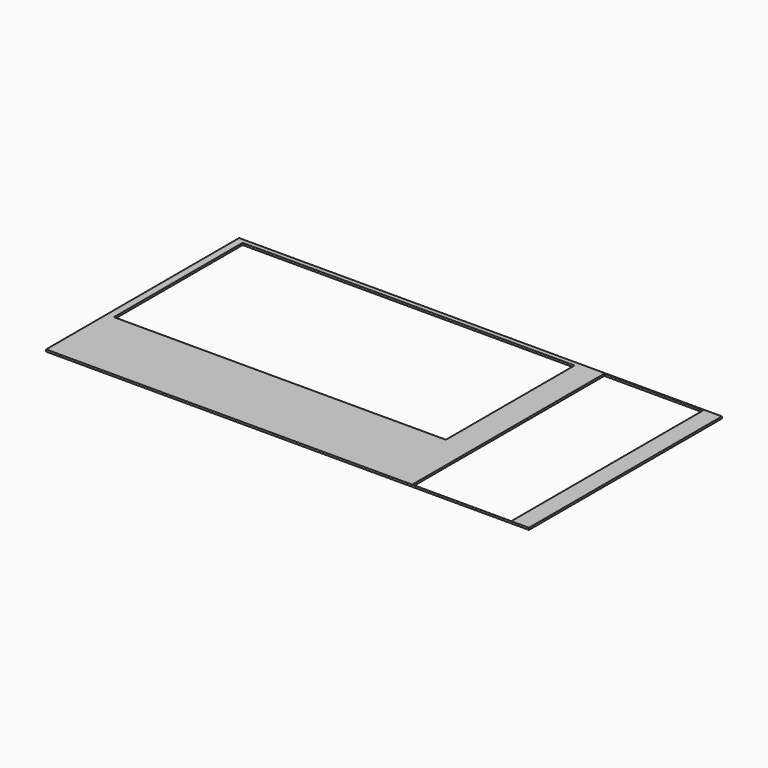
from build123d import *

# Parameters (mm, degrees)
F0_W     = 1219
F0_H     = 609
F0_W_2   = 250
F0_H_2   = 606
F0_W_3   = 838
F0_H_3   = 406
F1_DEPTH = 5


with BuildPart() as f1:
    # F0 (on Top) → F1 (new body)
    with BuildSketch(Plane.XY):
        Rectangle(F0_W, F0_H)
        with Locations((439.694822, -1.232199)):
            Rectangle(F0_W_2, F0_H_2, mode=Mode.SUBTRACT)
        with Locations((-172.124449, 89.721015)):
            Rectangle(F0_W_3, F0_H_3, mode=Mode.SUBTRACT)
    extrude(amount=F1_DEPTH)


solid = f1.part
